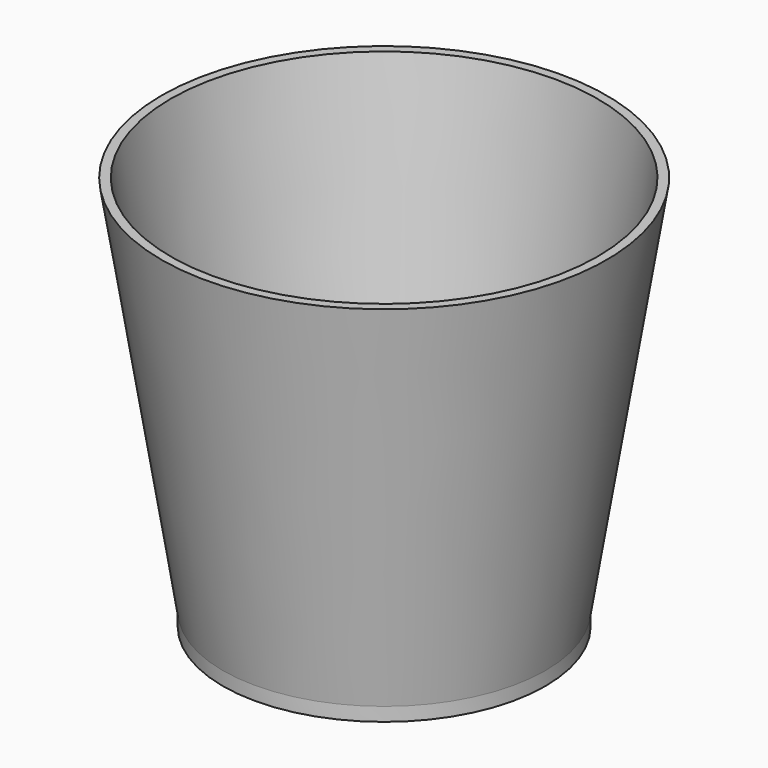
from build123d import *

# Parameters (mm, degrees)
F2_R     = 4
F3_DEPTH = 87.001


with BuildPart() as f1:
    # F0 (on Front) → F1 (revolve)
    with BuildSketch(Plane.XZ):
        Polygon((-49, 87), (-35.5, 3), (-33.5, 3), (-47, 87), align=None)
        Polygon((-35.5, 0), (0, 0), (0, 3), (-33.5, 3), (-35.5, 3), align=None)
    revolve(axis=Axis((0, 0, 45), (0, 0, 1)))

    # F2 (on face) → F3 (cut, through all)
    with BuildSketch(Plane(origin=(0, 0, 0), x_dir=(1, 0, 0), z_dir=(0, 0, -1))):
        with Locations((0, 17.75)):
            Circle(F2_R)
        with Locations((17.75, 0)):
            Circle(F2_R)
        with Locations((-17.75, 0)):
            Circle(F2_R)
        with Locations((0, -17.75)):
            Circle(F2_R)
    extrude(amount=-F3_DEPTH, mode=Mode.SUBTRACT)


solid = f1.part
